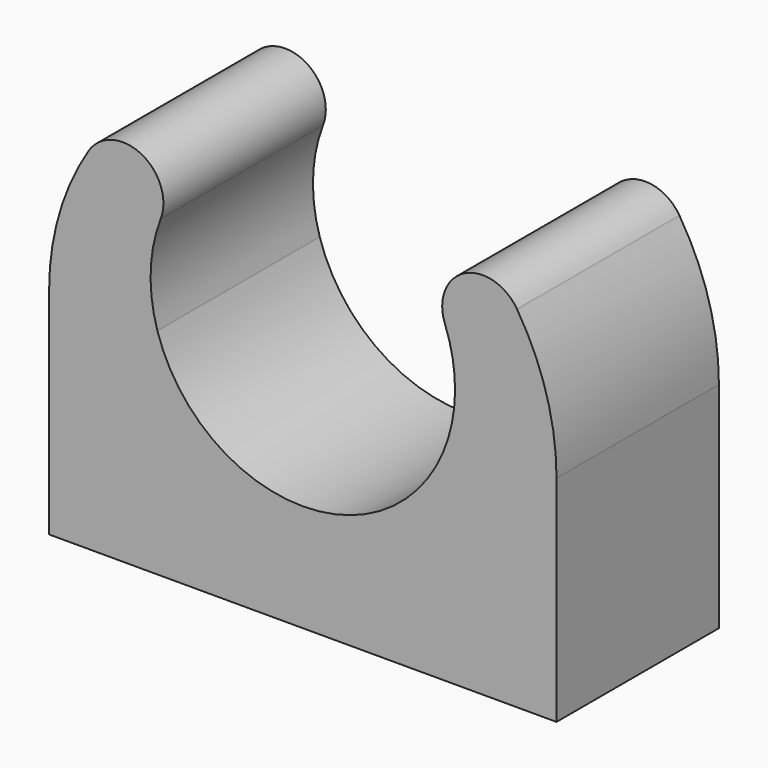
from build123d import *

# Parameters (mm, degrees)
F1_DEPTH = 2


with BuildPart() as f1:
    # F0 (on Front) → F1 (new body)
    with BuildSketch(Plane.XZ):
        with BuildLine():
            ThreePointArc((-1.4, 0.981246), (-1.593522, 1.482157), (-2.111111, 1.339108))
            ThreePointArc((-2.111111, 1.339108), (-2.40081, 0.697217), (-2.5, 0))
            Line((-2.5, 0), (-1.433175, 0))
            ThreePointArc((-1.433175, 0), (-1.499143, 0.493414), (-1.4, 0.981246))
        make_face()
        with BuildLine():
            Line((-1.433175, 0), (-2.5, 0))
            Line((-2.5, 0), (-2.5, -2.114541))
            Line((-2.5, -2.114541), (2.5, -2.114541))
            Line((2.5, -2.114541), (2.5, 0))
            Line((2.5, 0), (1.433175, 0))
            ThreePointArc((1.433175, 0), (0, -1.05727), (-1.433175, 0))
        make_face()
        with BuildLine():
            ThreePointArc((1.4, 0.981246), (1.499143, 0.493414), (1.433175, 0))
            Line((1.433175, 0), (2.5, 0))
            ThreePointArc((2.5, 0), (2.40081, 0.697217), (2.111111, 1.339108))
            ThreePointArc((2.111111, 1.339108), (1.593522, 1.482157), (1.4, 0.981246))
        make_face()
    extrude(amount=F1_DEPTH)


solid = f1.part
